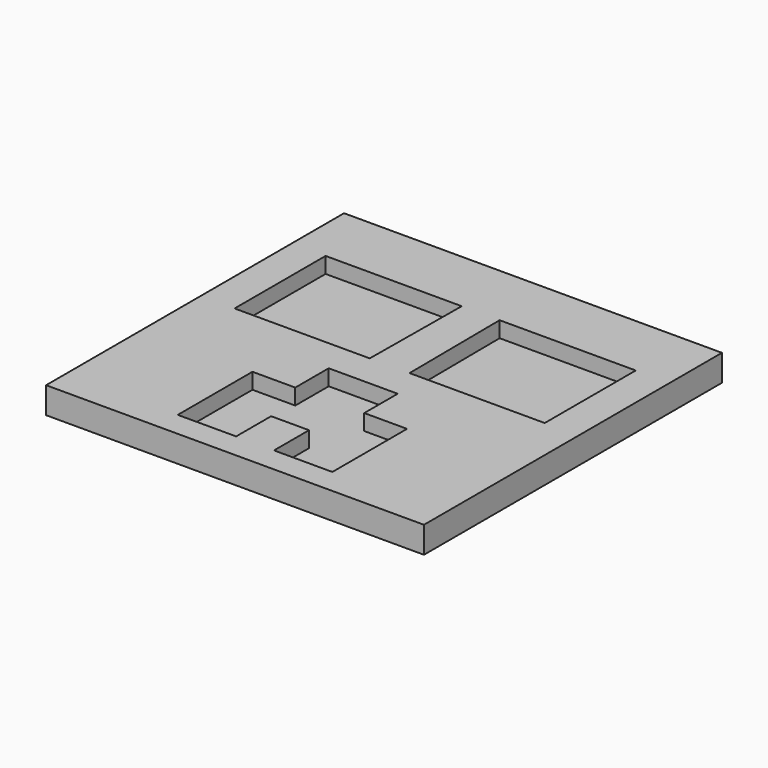
from build123d import *

# Parameters (mm, degrees)
F0_W     = 71.501047
F0_H     = 70.473907
F1_DEPTH = 5
F3_DEPTH = 3


with BuildPart() as f1:
    # F0 (on Top) → F1 (new body)
    with BuildSketch(Plane.XY):
        with Locations((-1.292258, -11.179564)):
            Rectangle(F0_W, F0_H)
    extrude(amount=F1_DEPTH)

    # F2 (on face) → F3 (cut)
    with BuildSketch(Plane.XY.offset(5)):
        Polygon((5.235284, -16.099593), (-1.292259, -16.099593), (-1.292259, -33.395153), (2.291359, -33.395153), (2.291359, -41.674946), (13.331078, -41.674946), (13.331078, -24.011392), (5.235284, -24.011392), align=None)
        Polygon((-1.292259, -33.395153), (-1.292259, -16.099593), (-7.819801, -16.099593), (-7.819801, -24.011392), (-15.915595, -24.011392), (-15.915595, -41.674946), (-4.875876, -41.674946), (-4.875876, -33.395153), align=None)
        Polygon((-5.059871, -9.84375), (-4.875876, 11.683703), (-30.635223, 11.683703), (-30.635223, -9.84375), align=None)
        Polygon((28.050706, 11.683703), (2.291359, 11.683703), (2.475354, -9.84375), (28.050706, -9.84375), align=None)
    extrude(amount=-F3_DEPTH, mode=Mode.SUBTRACT)


solid = f1.part
